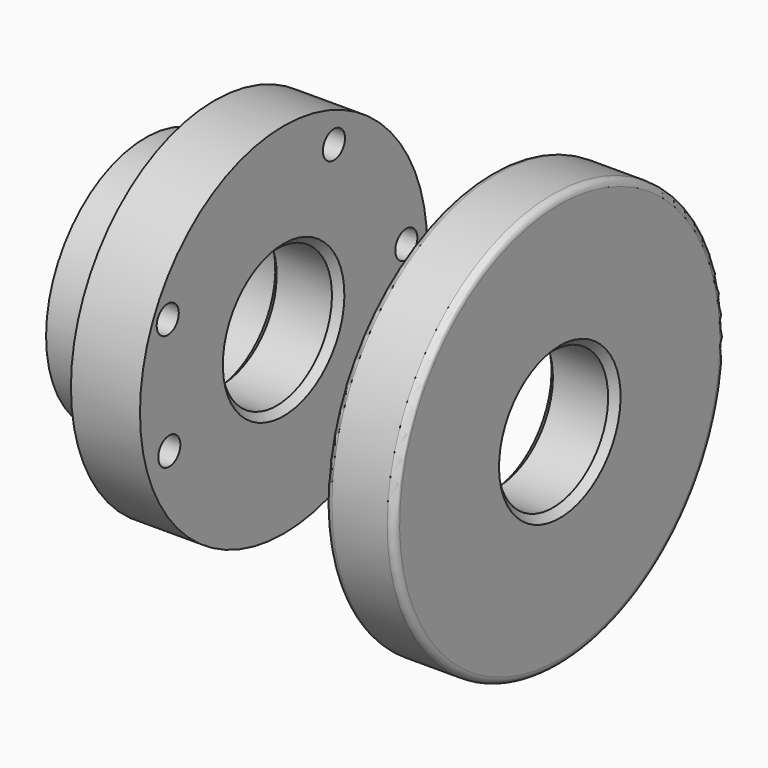
from build123d import *

# Parameters (mm, degrees)
F0_W     = 50
F0_H     = 100
F2_SIZE  = 5
F3_R     = 5
F5_R     = 90
F5_R_2   = 55
F6_DEPTH = 50
F5_R_3   = 175
F5_R_4   = 145
F5_R_5   = 130
F7_DEPTH = 250.001
F8_D     = 20


with BuildPart() as f1:
    # F0 (on Front) → F1 (revolve)
    with BuildSketch(Plane.XZ):
        with Locations((-25, 100)):
            Rectangle(F0_W, F0_H)
    revolve(axis=Axis((-17.4827627066, 0, 0), (-1, 0, 0)))

    # F2
    f2_edges = [f1.edges().sort_by_distance(p)[0] for p in [
        (-50, 0, -50),
        (0, 0, -50),
        (-25, 0, 50),
    ]]
    chamfer(f2_edges, length=F2_SIZE)

    # F3
    f3_edges = [f1.edges().sort_by_distance(p)[0] for p in [
        (0, 0, -150),
        (-50, 0, -150),
        (-25, 0, 150),
    ]]
    fillet(f3_edges, radius=F3_R)


with BuildPart() as f4_1:
    # F4: copy of F1
    add(f1.part.moved(Location((-200, 0, 0))))

    # F5 (on face) → F6 (join)
    with BuildSketch(Plane(origin=(-250, 0, 0), x_dir=(0, -1, 0), z_dir=(-1, 0, 0))):
        Circle(F5_R)
        Circle(F5_R_2, mode=Mode.SUBTRACT)
    extrude(amount=F6_DEPTH)

    # F5 (on face) → F7 (cut, through all)
    with BuildSketch(Plane(origin=(-250, 0, 0), x_dir=(0, -1, 0), z_dir=(-1, 0, 0))):
        Circle(F5_R_3)
        Circle(F5_R_4, mode=Mode.SUBTRACT)
        Circle(F5_R_4)
        Circle(F5_R_5, mode=Mode.SUBTRACT)
    extrude(amount=-F7_DEPTH, mode=Mode.SUBTRACT)

    # F8 (through all)
    with Locations(Plane(origin=(-250, 0, 0), x_dir=(0, -1, 0), z_dir=(-1, 0, 0))):
        with Locations((-45.5663353205, 99.6001213789), (-111.0604554415, 9.4270482659), (104.8803180456, 49.293037504), (103.4565344453, -35.1848937571)):
            Hole(F8_D / 2)


solid = Compound([f1.part, f4_1.part])
